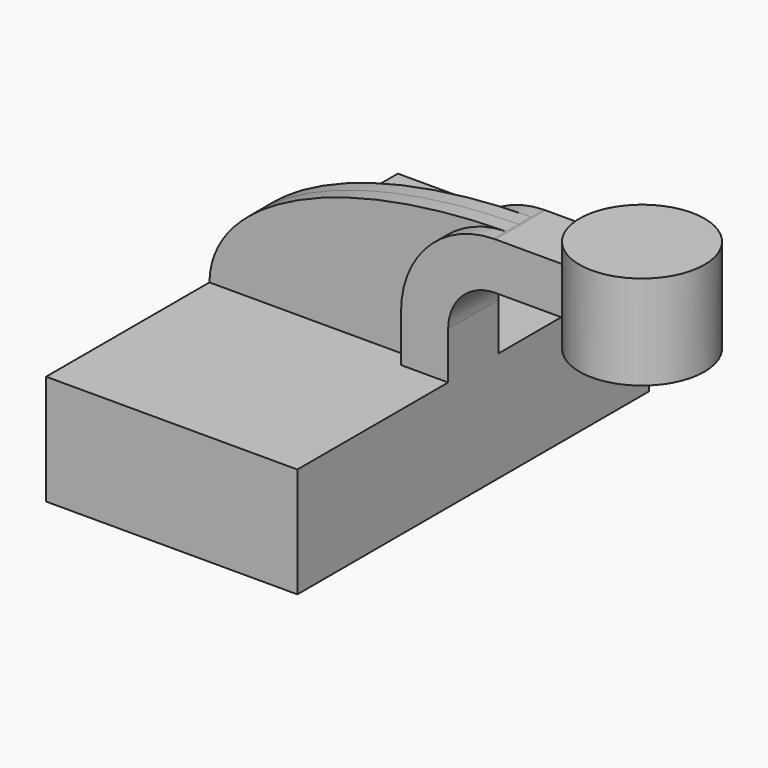
from build123d import *

# Parameters (mm, degrees)
F1_DEPTH = 88.9
F2_DEPTH = 6.35
F3_DEPTH = 12.7
F0_W     = 25.2763175084
F0_H     = 38.1


with BuildPart() as f1:
    # F0 (on Front) → F1 (new body, symmetric)
    with BuildSketch(Plane.XZ):
        Polygon((31.75, 22.225), (-50.8, 22.225), (-50.8, -22.225), (50.8, -22.225), (50.8, 22.225), align=None)
    extrude(amount=F1_DEPTH, both=True)

    # F0 (on Front) → F2 (join, symmetric)
    with BuildSketch(Plane.XZ):
        with BuildLine():
            add(Edge.make_bspline(
                [(-50.8, 22.225), (-50.420176295, 53.6387471007), (-0.3042402085, 78.7179242207), (69.217346781, 79.3697470119)],
                knots=[0, 0, 0, 0, 133.0977115432, 133.0977115432, 133.0977115432, 133.0977115432], degree=3))
            Line((-50.8, 22.225), (31.75, 22.225))
            Line((31.75, 22.225), (31.75, 41.275))
            ThreePointArc((31.75, 41.275), (42.6864758578, 67.9911553405), (69.217346781, 79.3697470119))
        make_face()
    extrude(amount=F2_DEPTH, both=True)

    # F0 (on Front) → F3 (join, symmetric)
    with BuildSketch(Plane.XZ):
        with BuildLine():
            Line((31.75, 41.275), (31.75, 22.225))
            Line((31.75, 22.225), (50.8, 22.225))
            Line((50.8, 22.225), (50.8, 41.275))
            ThreePointArc((50.8, 41.275), (56.3796158184, 54.7453841816), (69.85, 60.325))
            Line((69.85, 60.325), (93.4907073213, 60.325))
            Line((93.4907073213, 60.325), (93.4907073213, 79.375))
            Line((93.4907073213, 79.375), (69.85, 79.375))
            add(Edge.make_bspline(
                [(69.217346781, 79.3697470119), (69.4280532127, 79.3717225603), (69.6389379005, 79.3734737242), (69.85, 79.375)],
                knots=[133.0977115432, 133.0977115432, 133.0977115432, 133.0977115432, 133.5011048643, 133.5011048643, 133.5011048643, 133.5011048643], degree=3))
            ThreePointArc((69.217346781, 79.3697470119), (42.6864758578, 67.9911553405), (31.75, 41.275))
        make_face()
        Polygon((118.732270607, 79.375), (93.4907073213, 79.375), (93.4907073213, 60.325), (119.0067035424, 60.325), align=None)
    extrude(amount=F3_DEPTH, both=True)

    # F0 (on Front) → F4 (revolve)
    with BuildSketch(Plane.XZ):
        with Locations((131.6525485671, 70.3345479765)):
            Rectangle(F0_W, F0_H)
    revolve(axis=Axis((119.0143898129, 0, 70.3345479765), (0, 0, 1)))


solid = f1.part
